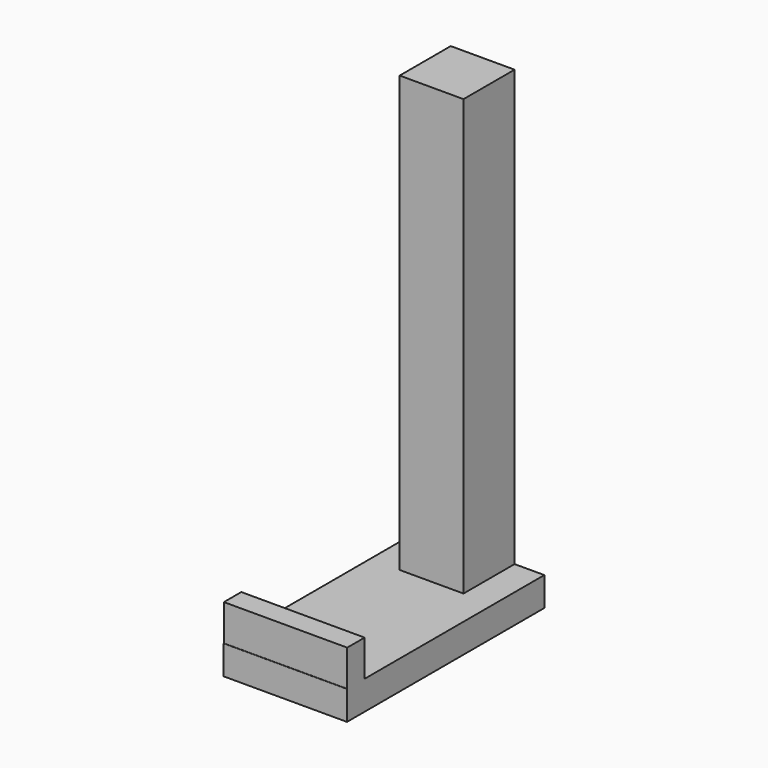
from build123d import *

# Parameters (mm, degrees)
F0_W     = 26.9875
F0_H     = 53.975
F1_DEPTH = 6.35
F2_W     = 26.9875
F2_H     = 4.7625
F3_DEPTH = 7.9375
F4_W     = 6.985
F4_H     = 13.97
F5_DEPTH = 101.6


with BuildPart() as f1:
    # F0 (on Top) → F1 (new body)
    with BuildSketch(Plane.XY):
        with Locations((-13.6893766582, -15.4694584429)):
            Rectangle(F0_W, F0_H)
    extrude(amount=F1_DEPTH)

    # F2 (on face) → F3 (join)
    with BuildSketch(Plane.XY.offset(6.35)):
        with Locations((-13.6893766582, -40.0176870465)):
            Rectangle(F2_W, F2_H)
    extrude(amount=F3_DEPTH)

    # F4 (on Top) → F5 (join)
    with BuildSketch(Plane.XY):
        with Locations((-17.1818766582, 4.5330415571)):
            Rectangle(F4_W, F4_H)
        with Locations((-10.1968766582, 4.5330415571)):
            Rectangle(F4_W, F4_H)
    extrude(amount=F5_DEPTH)


solid = f1.part
